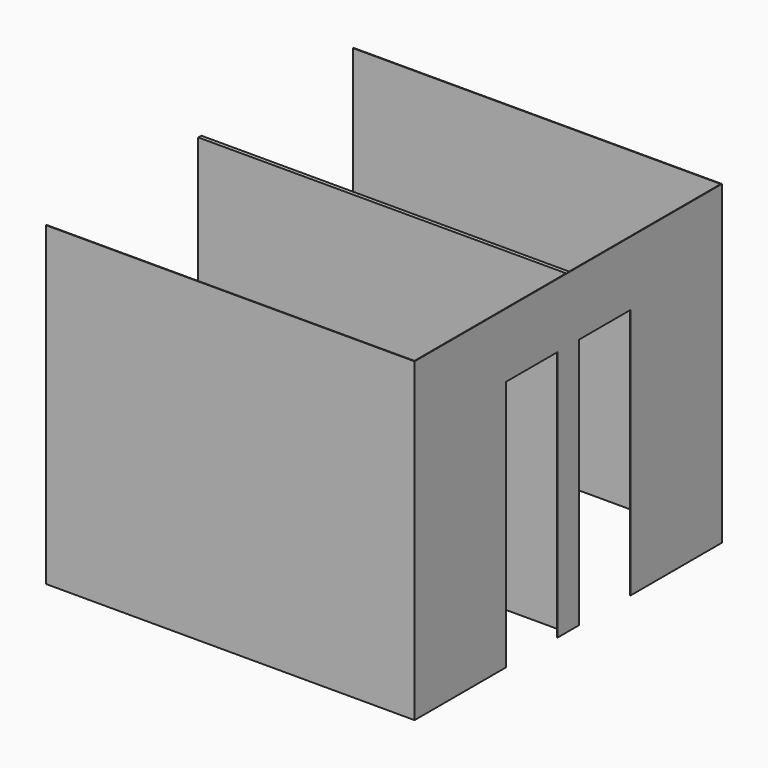
from build123d import *

# Parameters (mm, degrees)
F1_DEPTH = 2450
F2_W     = 500
F2_H     = 1950
F3_DEPTH = 300
F4_W     = 101
F4_H     = 2450
F5_DEPTH = 460
F7_DEPTH = 4630


with BuildPart() as f1:
    # F0 (on Top) → F1 (new body)
    with BuildSketch(Plane.XY):
        Polygon((5348.059315, 5858.212916), (8302.059315, 5858.212916), (8302.059315, 7338.212916), (8302.059315, 7358.212916), (8302.059315, 8838.212916), (5348.059315, 8838.212916), (5348.059315, 8833.212852), (8297.059252, 8833.212852), (8297.059252, 7363.21298), (5343.059252, 7363.21298), (5343.059252, 7333.212852), (8297.059252, 7333.212852), (8297.059252, 5863.21298), (5348.059315, 5863.21298), align=None)
    extrude(amount=F1_DEPTH)

    # F2 (on face) → F3 (cut)
    with BuildSketch(Plane(origin=(8297.059252, 0, 0), x_dir=(0, -1, 0), z_dir=(-1, 0, 0))):
        with Locations((-7703.21298, 975)):
            Rectangle(F2_W, F2_H)
        with Locations((-6993.212852, 975)):
            Rectangle(F2_W, F2_H)
    extrude(amount=-F3_DEPTH, mode=Mode.SUBTRACT)

    # F4 (on face) → F5 (cut)
    with BuildSketch(Plane.XZ.offset(-7333.212852)):
        with Locations((5393.559252, 1225)):
            Rectangle(F4_W, F4_H)
    extrude(amount=-F5_DEPTH, mode=Mode.SUBTRACT)

    # F6 (on face) → F7 (cut)
    with BuildSketch(Plane.XZ.offset(-5858.212916)):
        Polygon((5444.059252, 0), (5444.059252, 2450), (5444.059252, 2649.641752), (5038.322449, 2649.641752), (5038.322449, -210.067511), (5444.059252, -140.881062), align=None)
    extrude(amount=-F7_DEPTH, mode=Mode.SUBTRACT)


solid = f1.part
